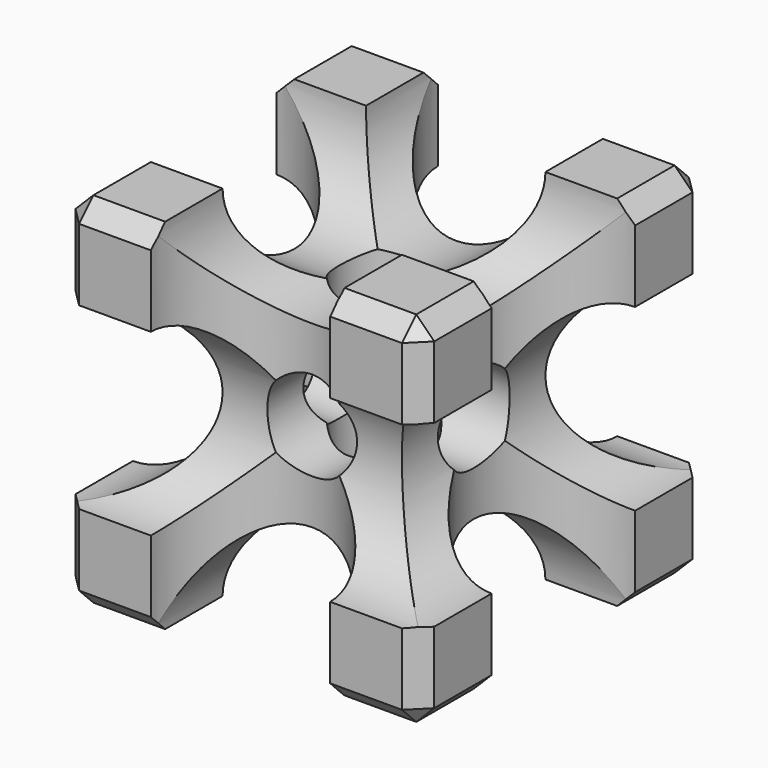
from build123d import *

# Parameters (mm, degrees)
F0_W       = 20
F0_H       = 20
F1_DEPTH   = 20
F5_D       = 5
F5_ON_F2_D = 5
F5_ON_F4_D = 5
F9_DEPTH   = 25
F10_DEPTH  = 25
F11_DEPTH  = 25
F12_SIZE   = 1


with BuildPart() as f1:
    # F0 (on Top) → F1 (new body)
    with BuildSketch(Plane.XY):
        Rectangle(F0_W, F0_H)
    extrude(amount=F1_DEPTH)

    # F5 (through all)
    with Locations(Plane.XZ.offset(10)):
        with Locations((0, 10)):
            Hole(F5_D / 2)

    # F5 on F2 (through all)
    with Locations(Plane.XY.offset(20)):
        with Locations((0, 0)):
            Hole(F5_ON_F2_D / 2)

    # F5 on F4 (through all)
    with Locations(Plane.YZ.offset(10)):
        with Locations((0, 10)):
            Hole(F5_ON_F4_D / 2)

    # F8 (on face) → F9 (cut)
    with BuildSketch(Plane.XY.offset(20)):
        with BuildLine():
            ThreePointArc((-5, 10), (0, 5), (5, 10))
            Line((5, 10), (-5, 10))
        make_face()
        with BuildLine():
            Line((10, -5), (10, 5))
            ThreePointArc((10, 5), (5, 0), (10, -5))
        make_face()
        with BuildLine():
            Line((-5, -10), (5, -10))
            ThreePointArc((5, -10), (0, -5), (-5, -10))
        make_face()
        with BuildLine():
            ThreePointArc((-5, 0), (-6.4644660941, 3.5355339059), (-10, 5))
            Line((-10, 5), (-10, -5))
            ThreePointArc((-10, -5), (-6.4644660941, -3.5355339059), (-5, 0))
        make_face()
    extrude(amount=-F9_DEPTH, mode=Mode.SUBTRACT)

    # F7 (on face) → F10 (cut)
    with BuildSketch(Plane.XZ.offset(10)):
        with BuildLine():
            ThreePointArc((-5, 20), (0, 15), (5, 20))
            Line((5, 20), (-5, 20))
        make_face()
        with BuildLine():
            Line((10, 5), (10, 15))
            ThreePointArc((10, 15), (5, 10), (10, 5))
        make_face()
        with BuildLine():
            Line((-5, 0), (5, 0))
            ThreePointArc((5, 0), (0, 5), (-5, 0))
        make_face()
        with BuildLine():
            ThreePointArc((-5, 10), (-6.4644660941, 13.5355339059), (-10, 15))
            Line((-10, 15), (-10, 5))
            ThreePointArc((-10, 5), (-6.4644660941, 6.4644660941), (-5, 10))
        make_face()
    extrude(amount=-F10_DEPTH, mode=Mode.SUBTRACT)

    # F6 (on face) → F11 (cut)
    with BuildSketch(Plane(origin=(-10, 0, 0), x_dir=(0, -1, 0), z_dir=(-1, 0, 0))):
        with BuildLine():
            ThreePointArc((-5, 20), (0, 15), (5, 20))
            Line((5, 20), (-5, 20))
        make_face()
        with BuildLine():
            Line((10, 5), (10, 15))
            ThreePointArc((10, 15), (5, 10), (10, 5))
        make_face()
        with BuildLine():
            Line((-5, 0), (5, 0))
            ThreePointArc((5, 0), (0, 5), (-5, 0))
        make_face()
        with BuildLine():
            ThreePointArc((-5, 10), (-6.4644660941, 13.5355339059), (-10, 15))
            Line((-10, 15), (-10, 5))
            ThreePointArc((-10, 5), (-6.4644660941, 6.4644660941), (-5, 10))
        make_face()
    extrude(amount=-F11_DEPTH, mode=Mode.SUBTRACT)

    # F12
    f12_edges = [f1.edges().sort_by_distance(p)[0] for p in [
        (7.5, 10, 0),
        (10, 7.5, 0),
        (10, 10, 2.5),
        (-10, 7.5, 0),
        (-7.5, 10, 0),
        (-10, 10, 2.5),
        (7.5, -10, 0),
        (10, -7.5, 0),
        (-7.5, -10, 0),
        (-10, -10, 2.5),
        (-10, -7.5, 0),
        (-10, 10, 17.5),
        (-10, 7.5, 20),
        (-7.5, 10, 20),
        (7.5, 10, 20),
        (10, 10, 17.5),
        (10, 7.5, 20),
        (7.5, -10, 20),
        (10, -7.5, 20),
        (-10, -7.5, 20),
        (-10, -10, 17.5),
        (-7.5, -10, 20),
        (10, -10, 2.5),
        (10, -10, 17.5),
    ]]
    chamfer(f12_edges, length=F12_SIZE)


solid = f1.part
